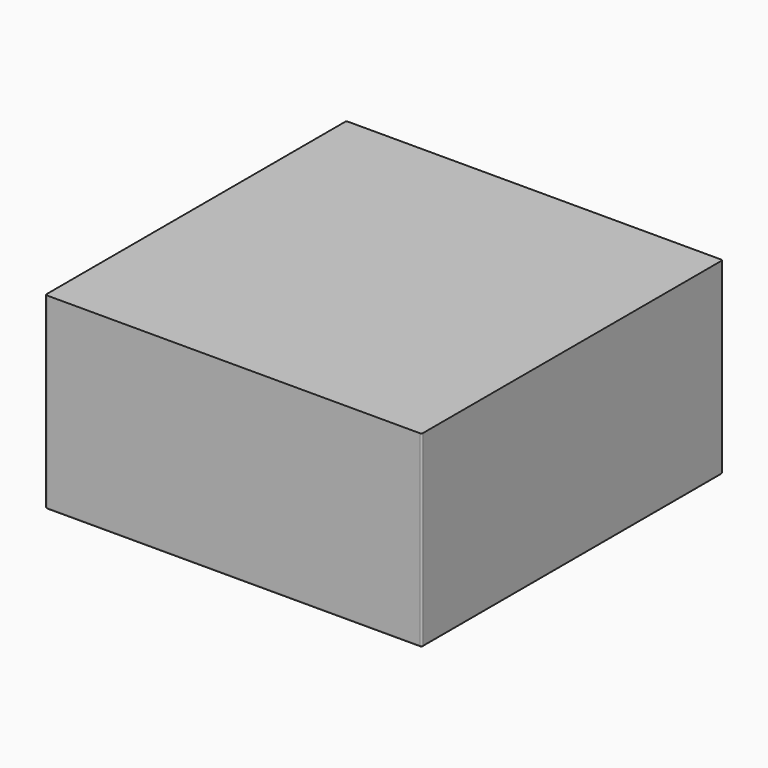
from build123d import *

# Parameters (mm, degrees)
F0_W     = 127
F0_H     = 127
F1_DEPTH = 63.5
F3_R     = 6
F4_DEPTH = 50.8
F5_R     = 0.5


with BuildPart() as f1:
    # F0 (on Top) → F1 (new body)
    with BuildSketch(Plane.XY):
        Rectangle(F0_W, F0_H)
    extrude(amount=F1_DEPTH)

    # F3 (on Top) → F4 (cut)
    with BuildSketch(Plane.XY):
        with Locations((-42.3333414078, -42.333333838)):
            Circle(F3_R)
        with Locations((-42.3333414078, -21.1666752458)):
            Circle(F3_R)
        with Locations((-42.3333414078, -1.66535e-05)):
            Circle(F3_R)
        with Locations((-42.3333414078, 21.1666419387)):
            Circle(F3_R)
        with Locations((-42.3333414078, 42.3333005309)):
            Circle(F3_R)
        with Locations((-21.1666828156, -42.333333838)):
            Circle(F3_R)
        with Locations((-21.1666828156, -21.1666752458)):
            Circle(F3_R)
        with Locations((-21.1666828156, -1.66535e-05)):
            Circle(F3_R)
        with Locations((-21.1666828156, 21.1666419387)):
            Circle(F3_R)
        with Locations((-21.1666828156, 42.3333005309)):
            Circle(F3_R)
        with Locations((-2.42233e-05, -42.333333838)):
            Circle(F3_R)
        with Locations((-2.42233e-05, -21.1666752458)):
            Circle(F3_R)
        with Locations((-2.42233e-05, -1.66535e-05)):
            Circle(F3_R)
        with Locations((-2.42233e-05, 21.1666419387)):
            Circle(F3_R)
        with Locations((-2.42233e-05, 42.3333005309)):
            Circle(F3_R)
        with Locations((21.1666343689, -42.333333838)):
            Circle(F3_R)
        with Locations((21.1666343689, -21.1666752458)):
            Circle(F3_R)
        with Locations((21.1666343689, -1.66535e-05)):
            Circle(F3_R)
        with Locations((21.1666343689, 21.1666419387)):
            Circle(F3_R)
        with Locations((21.1666343689, 42.3333005309)):
            Circle(F3_R)
        with Locations((42.3332929611, -42.333333838)):
            Circle(F3_R)
        with Locations((42.3332929611, -21.1666752458)):
            Circle(F3_R)
        with Locations((42.3332929611, -1.66535e-05)):
            Circle(F3_R)
        with Locations((42.3332929611, 21.1666419387)):
            Circle(F3_R)
        with Locations((42.3332929611, 42.3333005309)):
            Circle(F3_R)
    extrude(amount=F4_DEPTH, mode=Mode.SUBTRACT)

    # F5
    f5_edges = [f1.edges().sort_by_distance(p)[0] for p in [
        (63.5, 0, 0),
        (0, -63.5, 0),
        (0, 63.5, 0),
        (-63.5, 0, 0),
        (-48.333341, -42.333334, 0),
        (-27.166683, -42.333334, 0),
        (-48.333341, -21.166675, 0),
        (-27.166683, -21.166675, 0),
        (-6.000024, -42.333334, 0),
        (15.166634, -42.333334, 0),
        (36.333293, -42.333334, 0),
        (-6.000024, -21.166675, 0),
        (15.166634, -21.166675, 0),
        (36.333293, -21.166675, 0),
        (-48.333341, -1.7e-05, 0),
        (-48.333341, 21.166642, 0),
        (-27.166683, -1.7e-05, 0),
        (-27.166683, 21.166642, 0),
        (-48.333341, 42.333301, 0),
        (-27.166683, 42.333301, 0),
        (-6.000024, -1.7e-05, 0),
        (15.166634, -1.7e-05, 0),
        (-6.000024, 21.166642, 0),
        (15.166634, 21.166642, 0),
        (36.333293, -1.7e-05, 0),
        (36.333293, 21.166642, 0),
        (-6.000024, 42.333301, 0),
        (15.166634, 42.333301, 0),
        (36.333293, 42.333301, 0),
        (-63.5, 63.5, 31.75),
        (-63.5, -63.5, 31.75),
        (63.5, 63.5, 31.75),
        (63.5, -63.5, 31.75),
    ]]
    fillet(f5_edges, radius=F5_R)


solid = f1.part
